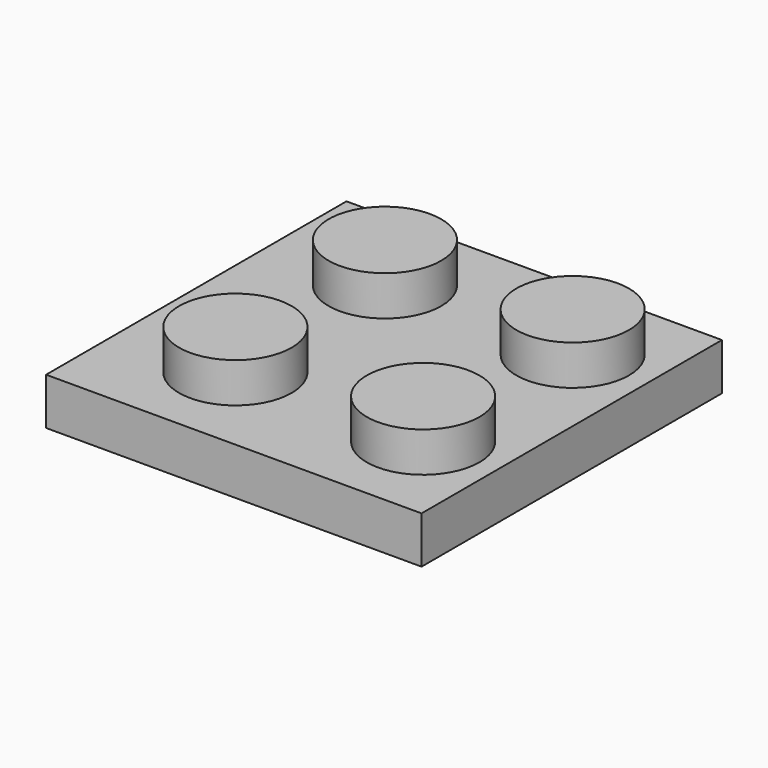
from build123d import *

# Parameters (mm, degrees)
F0_R     = 2.4
F1_DEPTH = 1.7
F0_W     = 16
F0_H     = 16
F2_DEPTH = 2


with BuildPart() as f1:
    # F0 (on Top) → F1 (new body)
    with BuildSketch(Plane.XY):
        with Locations((12.804821, -11.922858)):
            Circle(F0_R)
        with Locations((12.777717, -3.922904)):
            Circle(F0_R)
        with Locations((4.777717, -3.922904)):
            Circle(F0_R)
        with Locations((4.804821, -11.922858)):
            Circle(F0_R)
    extrude(amount=F1_DEPTH)


with BuildPart() as f2:
    # F0 (on Top) → F2 (new body)
    with BuildSketch(Plane.XY):
        with Locations((8, -8)):
            Rectangle(F0_W, F0_H)
        with Locations((4.804821, -11.922858)):
            Circle(F0_R, mode=Mode.SUBTRACT)
        with Locations((12.804821, -11.922858)):
            Circle(F0_R, mode=Mode.SUBTRACT)
        with Locations((4.777717, -3.922904)):
            Circle(F0_R, mode=Mode.SUBTRACT)
        with Locations((12.777717, -3.922904)):
            Circle(F0_R, mode=Mode.SUBTRACT)
        with Locations((12.777717, -3.922904)):
            Circle(F0_R)
        with Locations((12.804821, -11.922858)):
            Circle(F0_R)
        with Locations((4.804821, -11.922858)):
            Circle(F0_R)
        with Locations((4.777717, -3.922904)):
            Circle(F0_R)
    extrude(amount=-F2_DEPTH)


solid = Compound([f1.part, f2.part])
